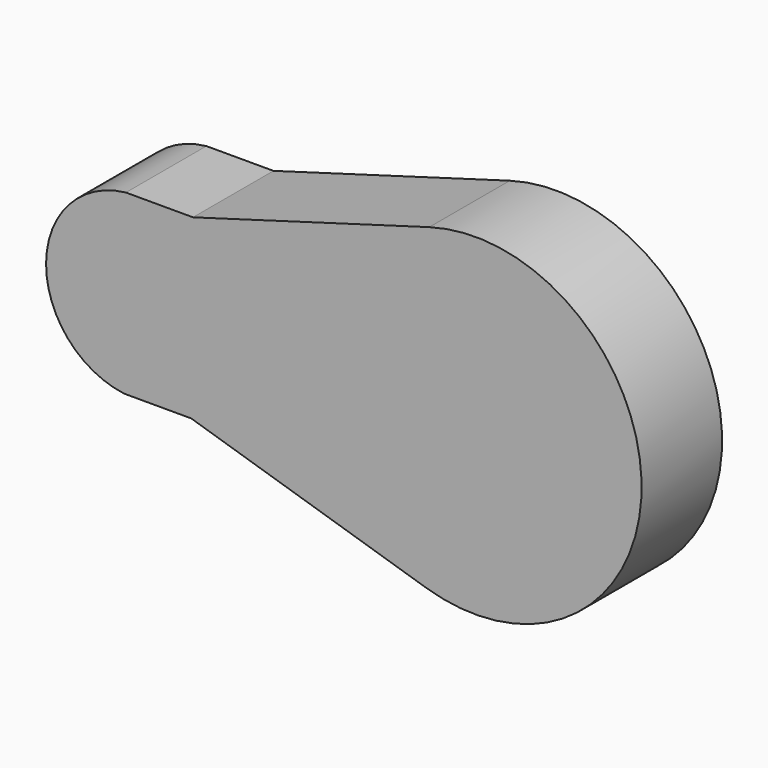
from build123d import *

# Parameters (mm, degrees)
F1_DEPTH = 28.575


with BuildPart() as f1:
    # F0 (on Front) → F1 (new body)
    with BuildSketch(Plane.XZ):
        with BuildLine():
            Line((-80.690927, -24.445714), (-13.966266, -45.105871))
            ThreePointArc((-13.966266, -45.105871), (47.216391, -0.456773), (-13.091022, 45.367624))
            Line((-13.091022, 45.367624), (-80.202892, 26.002207))
            Line((-80.202892, 26.002207), (-93.790649, 26.002207))
            Line((-93.790649, 26.002207), (-99.252892, 26.002207))
            ThreePointArc((-99.252892, 26.002207), (-121.920582, 0.995174), (-99.740927, -24.445714))
            Line((-99.740927, -24.445714), (-93.302614, -24.445714))
            Line((-93.302614, -24.445714), (-80.690927, -24.445714))
        make_face()
    extrude(amount=F1_DEPTH)


solid = f1.part
